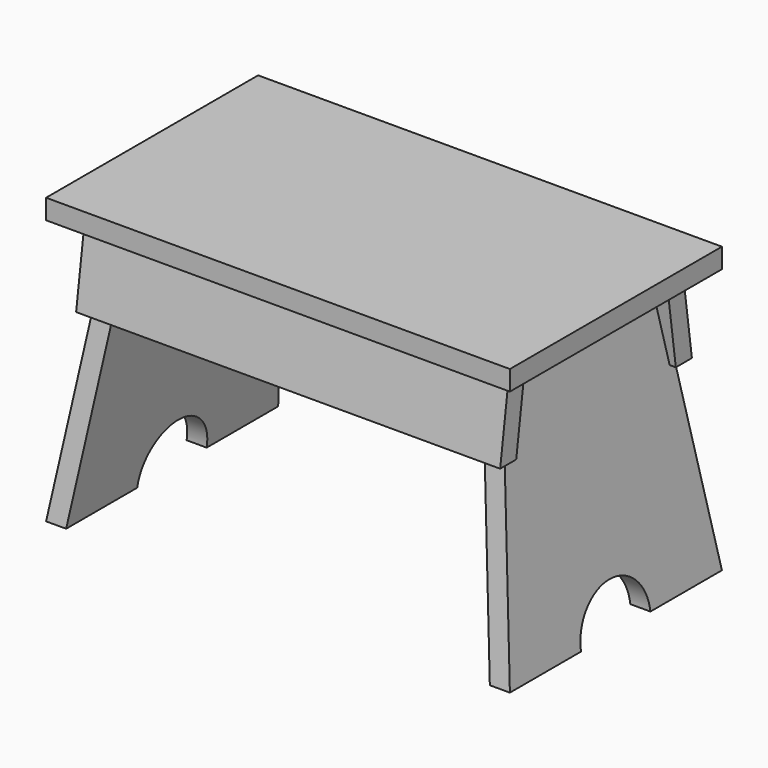
from build123d import *

# Parameters (mm, degrees)
F1_DEPTH      = 127
F2_DEPTH      = 127
F2_DEPTH_BACK = 127
F4_DEPTH      = 222.251
F4_DEPTH_BACK = 222.251
F6_DEPTH      = 203.2


with BuildPart() as f1:
    # F0 (on Front) → F1 (new body, symmetric)
    with BuildSketch(Plane.XZ):
        Polygon((222.25, -9.525), (222.25, 9.525), (-222.25, 9.525), (-222.25, -9.525), (-200.8315767914, -9.525), (-186.5526279856, -9.525), (-167.3154127291, -9.525), (167.3154127291, -9.525), (186.5526279856, -9.525), (200.8315767914, -9.525), align=None)
    extrude(amount=F1_DEPTH, both=True)


with BuildPart() as f2:
    # F0 (on Front) → F2 (new body, two sides)
    with BuildSketch(Plane.XZ) as f2_sk:
        Polygon((-167.3154127291, -9.525), (-186.5526279856, -9.525), (-193.6921023885, -60.325), (-174.454887132, -60.325), align=None)
        Polygon((-174.454887132, -60.325), (-193.6921023885, -60.325), (-222.25, -263.525), (-203.0127847435, -263.525), align=None)
    extrude(amount=F2_DEPTH)
    extrude(f2_sk.sketch, amount=-F2_DEPTH_BACK)


with BuildPart() as f2b:
    # F0 (on Front) → F2, piece 2 (new body, two sides)
    with BuildSketch(Plane.XZ) as f2_2_sk:
        Polygon((193.6921023885, -60.325), (186.5526279856, -9.525), (167.3154127291, -9.525), (174.454887132, -60.325), align=None)
        Polygon((222.25, -263.525), (193.6921023885, -60.325), (174.454887132, -60.325), (203.0127847435, -263.525), align=None)
    extrude(amount=F2_DEPTH)
    extrude(f2_2_sk.sketch, amount=-F2_DEPTH_BACK)


with BuildPart() as f4_tool:
    # F3 (on Right) → F4 (new body, two sides)
    with BuildSketch(Plane.YZ) as f4_sk:
        Polygon((-127, -263.525), (-91.3026279856, -9.525), (-127, -9.525), align=None)
        with BuildLine():
            Line((-41.7890772223, -263.525), (41.3353252225, -263.525))
            ThreePointArc((41.3353252225, -263.525), (-0.2268759999, -221.2201001748), (-41.7890772223, -263.525))
        make_face()
        Polygon((126.9999999998, -263.525), (126.9999999998, -9.525), (91.3026279854, -9.525), align=None)
    extrude(amount=-F4_DEPTH)
    extrude(f4_sk.sketch, amount=F4_DEPTH_BACK)


with BuildPart() as f2_1:
    add(f2.part)

    # F4: cut by f4_tool
    add(f4_tool.part, mode=Mode.SUBTRACT)


with BuildPart() as f2b_1:
    add(f2b.part)

    # F4: cut by f4_tool
    add(f4_tool.part, mode=Mode.SUBTRACT)


with BuildPart() as f6:
    # F5 (on Right) → F6 (new body, symmetric)
    with BuildSketch(Plane.YZ):
        Polygon((-84.8902228999, -9.525), (-104.1274381564, -9.525), (-114.8366497607, -85.725), (-95.5994345042, -85.725), align=None)
    extrude(amount=F6_DEPTH, both=True)


with BuildPart() as f6b:
    # F5 (on Right) → F6, piece 2 (new body, symmetric)
    with BuildSketch(Plane.YZ):
        Polygon((84.8902228999, -9.525), (95.5994345042, -85.725), (114.8366497607, -85.725), (104.1274381564, -9.525), align=None)
    extrude(amount=F6_DEPTH, both=True)


solid = Compound([f1.part, f2_1.part, f2b_1.part, f6.part, f6b.part])
